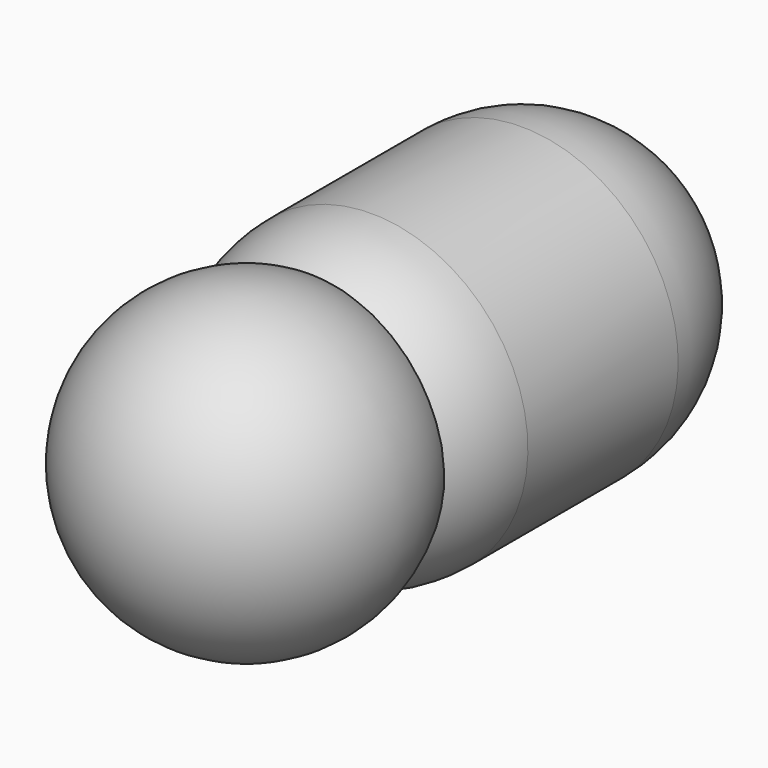
from build123d import *

# Parameters (mm, degrees)
F2_DEPTH = 406.4
F3_R     = 127


with BuildPart() as f1:
    # F0 (on Front) → F1 (revolve)
    with BuildSketch(Plane.XZ):
        with BuildLine():
            ThreePointArc((0, -127), (89.8025612107, -89.8025612107), (127, 0))
            ThreePointArc((127, 0), (89.8025612107, 89.8025612107), (0, 127))
            Line((0, 127), (0, -127))
        make_face()
    revolve(axis=Axis((0, 0, 0), (0, 0, -1)))


with BuildPart() as f2:
    # F0 (on Front) → F2 (new body)
    with BuildSketch(Plane.XZ):
        with BuildLine():
            Line((0, -127), (0, 127))
            ThreePointArc((0, 127), (-127, 0), (0, -127))
        make_face()
        with BuildLine():
            ThreePointArc((0, -127), (89.8025612107, -89.8025612107), (127, 0))
            ThreePointArc((127, 0), (89.8025612107, 89.8025612107), (0, 127))
            Line((0, 127), (0, -127))
        make_face()
    extrude(amount=-F2_DEPTH)

    # F3
    f3_edges = [f2.edges().sort_by_distance(p)[0] for p in [
        (0, 0, 127),
        (0, 406.4, 127),
    ]]
    fillet(f3_edges, radius=F3_R)


solid = Compound([f1.part, f2.part])
